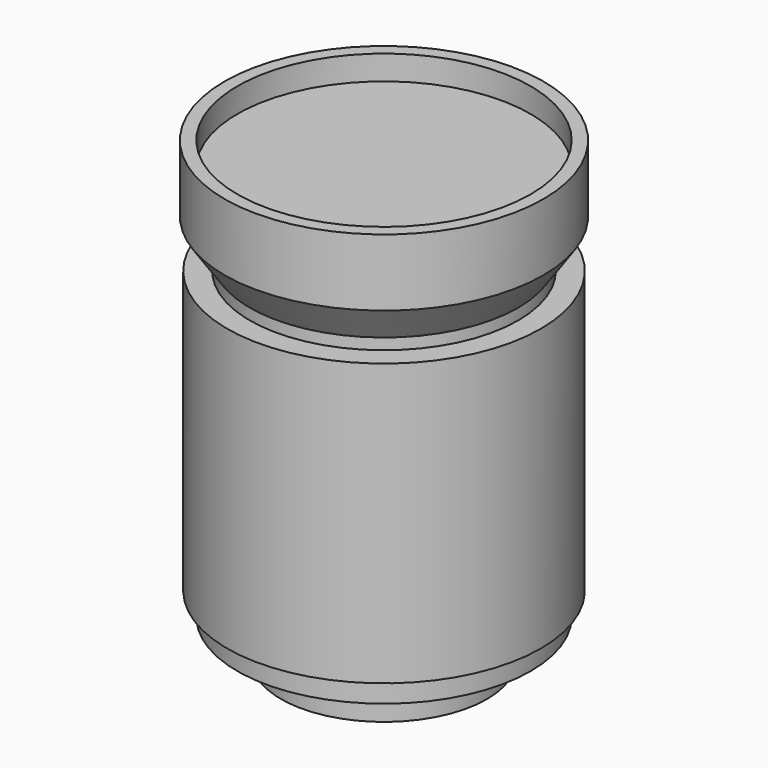
from build123d import *


with BuildPart() as part:
    # Sketch → Revolution (revolve)
    with BuildSketch(Plane.XZ):
        Polygon((0, 0), (12.63, 0), (12.63, 4.75), (17.975, 4.75), (17.975, 7.6), (19.225, 7.6), (19.225, 42.11), (16.455, 42.11), (16.455, 43.48), (19.54, 47.99), (19.54, 56.21), (17.97, 56.21), (17.97, 53.21), (0, 53.21), align=None)
    revolve(axis=Axis((0, 0, 0), (0, 0, 1)))


solid = part.part
